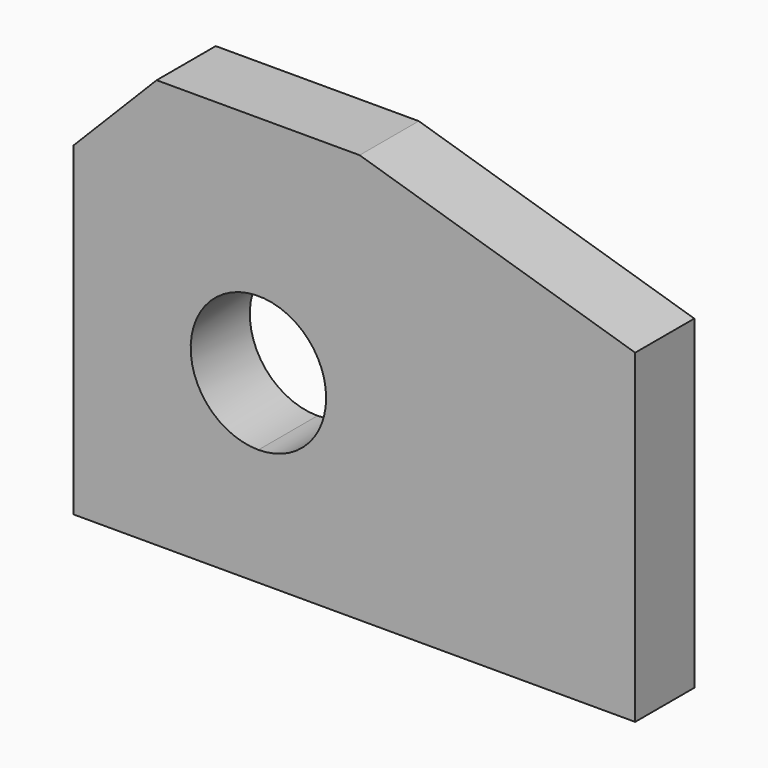
from build123d import *

# Parameters (mm, degrees)
F1_DEPTH = 30


with BuildPart() as f1:
    # F0 (on Front) → F1 (new body)
    with BuildSketch(Plane.XZ):
        Polygon((-113.19161, -36.827582), (-113.19161, -75), (114.80839, -75), (114.80839, 57), (2.920733, 91.207489), (-79.518956, 91.207489), (-113.19161, 57), align=None)
        with BuildLine():
            ThreePointArc((-10.69161, 0), (-18.746174, -19.445436), (-38.19161, -27.5))
            ThreePointArc((-38.19161, -27.5), (-57.637047, 19.445436), (-10.69161, 0))
        make_face(mode=Mode.SUBTRACT)
    extrude(amount=F1_DEPTH)


solid = f1.part
